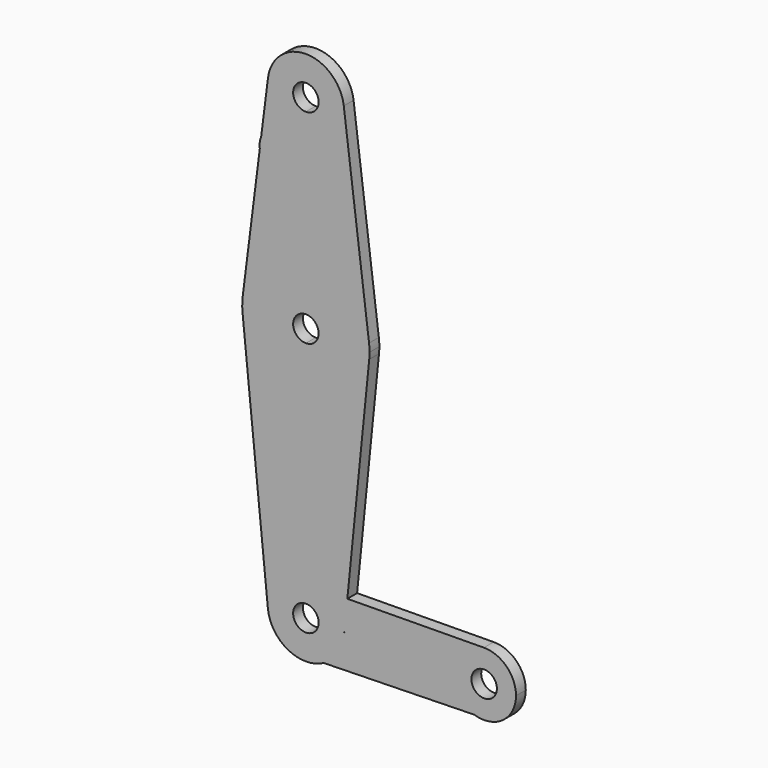
from build123d import *

# Parameters (mm, degrees)
F1_DEPTH = 3.048


with BuildPart() as f1:
    # F0 (on Front) → F1 (new body)
    with BuildSketch(Plane.XZ):
        with BuildLine():
            ThreePointArc((-9.4502929642, 115.490625), (-7.14375, 107.9998046905), (0, 104.775))
            ThreePointArc((0, 104.775), (6.7351920908, 107.5648079092), (9.525, 114.3))
            ThreePointArc((9.525, 114.3), (9.5063048942, 114.896483242), (9.4502929642, 115.490625))
            ThreePointArc((9.4502929642, 115.490625), (0, 123.825), (-9.4502929642, 115.490625))
        make_face()
        with BuildLine():
            ThreePointArc((3.175, 114.3), (2.2450640303, 112.0549359697), (0, 111.125))
            ThreePointArc((0, 111.125), (-2.2450640303, 116.5450640303), (3.175, 114.3))
        make_face(mode=Mode.SUBTRACT)
        with BuildLine():
            ThreePointArc((9.525, 114.3), (6.7351920908, 107.5648079092), (0, 104.775))
            Line((0, 104.775), (0, 79.375))
            ThreePointArc((0, 79.375), (10.5003255158, 75.40625), (15.7504882737, 65.484375))
            Line((15.7504882737, 65.484375), (9.4502929642, 115.490625))
            ThreePointArc((9.4502929642, 115.490625), (9.5063048942, 114.896483242), (9.525, 114.3))
        make_face()
        with BuildLine():
            Line((0, 79.375), (0, 104.775))
            ThreePointArc((0, 104.775), (-7.14375, 107.9998046905), (-9.4502929642, 115.490625))
            Line((-9.4502929642, 115.490625), (-11.1502544755, 101.9975988084))
            ThreePointArc((-11.1502544755, 101.9975988084), (-5.3447623517, 105.1165944415), (-1.1603179203, 100.0252))
            ThreePointArc((-1.1603179203, 100.0252), (-5.9890709954, 94.8480839744), (-11.4894787169, 99.3050898642))
            Line((-11.4894787169, 99.3050898642), (-15.7504882737, 65.484375))
            ThreePointArc((-15.7504882737, 65.484375), (-10.5003255158, 75.40625), (0, 79.375))
        make_face()
        with BuildLine():
            ThreePointArc((15.7504882737, 65.484375), (10.5003255158, 75.40625), (0, 79.375))
            Line((0, 79.375), (0, 66.675))
            ThreePointArc((0, 66.675), (2.2450640303, 65.7450640303), (3.175, 63.5))
            ThreePointArc((3.175, 63.5), (2.2450640303, 61.2549359697), (0, 60.325))
            Line((0, 60.325), (0, 47.625))
            ThreePointArc((0, 47.625), (10.6492737428, 51.7267849017), (15.7954255641, 61.9125))
            ThreePointArc((15.7954255641, 61.9125), (15.8550939106, 62.7052534459), (15.875, 63.5))
            ThreePointArc((15.875, 63.5), (15.8438414904, 64.4941387366), (15.7504882737, 65.484375))
        make_face()
        with BuildLine():
            Line((0, 66.675), (0, 79.375))
            ThreePointArc((0, 79.375), (-10.5003255158, 75.40625), (-15.7504882737, 65.484375))
            ThreePointArc((-15.7504882737, 65.484375), (-15.8737438155, 63.6997054867), (-15.7954255641, 61.9125))
            ThreePointArc((-15.7954255641, 61.9125), (-10.6492737428, 51.7267849017), (0, 47.625))
            Line((0, 47.625), (0, 60.325))
            ThreePointArc((0, 60.325), (-3.175, 63.5), (0, 66.675))
        make_face()
        with BuildLine():
            ThreePointArc((-1.1603179203, 100.0252), (-5.3447623517, 105.1165944415), (-11.1502544755, 101.9975988084))
            Line((-11.1502544755, 101.9975988084), (-11.4894787169, 99.3050898642))
            ThreePointArc((-11.4894787169, 99.3050898642), (-5.9890709954, 94.8480839744), (-1.1603179203, 100.0252))
        make_face()
        with BuildLine():
            Line((-11.4894787169, 99.3050898642), (-11.1502544755, 101.9975988084))
            ThreePointArc((-11.1502544755, 101.9975988084), (-11.4989780624, 100.67391026), (-11.4894787169, 99.3050898642))
        make_face()
        with BuildLine():
            ThreePointArc((0, 47.625), (-10.6492737428, 51.7267849017), (-15.7954255641, 61.9125))
            Line((-15.7954255641, 61.9125), (-9.4772553384, -0.9525))
            ThreePointArc((-9.4772553384, -0.9525), (-7.063929059, 6.3895642457), (0, 9.525))
            Line((0, 9.525), (0, 47.625))
        make_face()
        with BuildLine():
            ThreePointArc((15.7954255641, 61.9125), (10.6492737428, 51.7267849017), (0, 47.625))
            Line((0, 47.625), (0, 9.525))
            ThreePointArc((0, 9.525), (3.0618336501, 9.0194678168), (5.7986582819, 7.5565327452))
            Line((5.7986582819, 7.5565327452), (10.336945567, 7.6013097722))
            Line((10.336945567, 7.6013097722), (15.7954255641, 61.9125))
        make_face()
        with BuildLine():
            ThreePointArc((0, 9.525), (-7.063929059, 6.3895642457), (-9.4772553384, -0.9525))
            ThreePointArc((-9.4772553384, -0.9525), (-4.4927588218, -8.3988536818), (4.4678891991, -8.4121097891))
            ThreePointArc((4.4678891991, -8.4121097891), (7.9074780174, -5.3101239538), (9.4772553384, -0.9525))
            ThreePointArc((9.4772553384, -0.9525), (9.5130563464, -0.4768479324), (9.525, 0))
            Line((9.525, 0), (3.175, 0))
            ThreePointArc((3.175, 0), (-2.2450640303, -2.2450640303), (0, 3.175))
            Line((0, 3.175), (0, 9.525))
        make_face()
        with BuildLine():
            Line((44.3716884408, 7.9371136788), (10.336945567, 7.6013097722))
            Line((10.336945567, 7.6013097722), (9.5729851903, 0))
            Line((9.5729851903, 0), (36.5125, 0))
            ThreePointArc((36.5125, 0), (38.8097205632, 5.5849041285), (44.3716884408, 7.9371136788))
        make_face()
        with BuildLine():
            Line((9.5729851903, 0), (10.336945567, 7.6013097722))
            Line((10.336945567, 7.6013097722), (5.7986582819, 7.5565327452))
            ThreePointArc((5.7986582819, 7.5565327452), (8.5427701928, 4.2126835191), (9.525, 0))
            Line((9.525, 0), (9.5729851903, 0))
        make_face()
        with BuildLine():
            ThreePointArc((9.4772553384, -0.9525), (7.9074780174, -5.3101239538), (4.4678891991, -8.4121097891))
            Line((4.4678891991, -8.4121097891), (42.0198443673, -7.5563383891))
            ThreePointArc((42.0198443673, -7.5563383891), (38.0354358455, -4.6751762488), (36.5125, 0))
            Line((36.5125, 0), (9.5729851903, 0))
            Line((9.5729851903, 0), (9.4772553384, -0.9525))
        make_face()
        with BuildLine():
            ThreePointArc((52.3875, 0), (50.0349041285, 5.6402794368), (44.3716884408, 7.9371136788))
            ThreePointArc((44.3716884408, 7.9371136788), (38.8097205632, 5.5849041285), (36.5125, 0))
            ThreePointArc((36.5125, 0), (38.0354358455, -4.6751762488), (42.0198443673, -7.5563383891))
            ThreePointArc((42.0198443673, -7.5563383891), (49.1251762488, -6.4145641545), (52.3875, 0))
        make_face()
        with BuildLine():
            ThreePointArc((47.625, 0), (44.45, -3.175), (41.275, 0))
            ThreePointArc((41.275, 0), (44.45, 3.175), (47.625, 0))
        make_face(mode=Mode.SUBTRACT)
        with BuildLine():
            ThreePointArc((5.7986582819, 7.5565327452), (3.0618336501, 9.0194678168), (0, 9.525))
            Line((0, 9.525), (0, 3.175))
            ThreePointArc((0, 3.175), (2.2450640303, 2.2450640303), (3.175, 0))
            Line((3.175, 0), (9.525, 0))
            ThreePointArc((9.525, 0), (8.5427701928, 4.2126835191), (5.7986582819, 7.5565327452))
        make_face()
    extrude(amount=F1_DEPTH)


solid = f1.part
